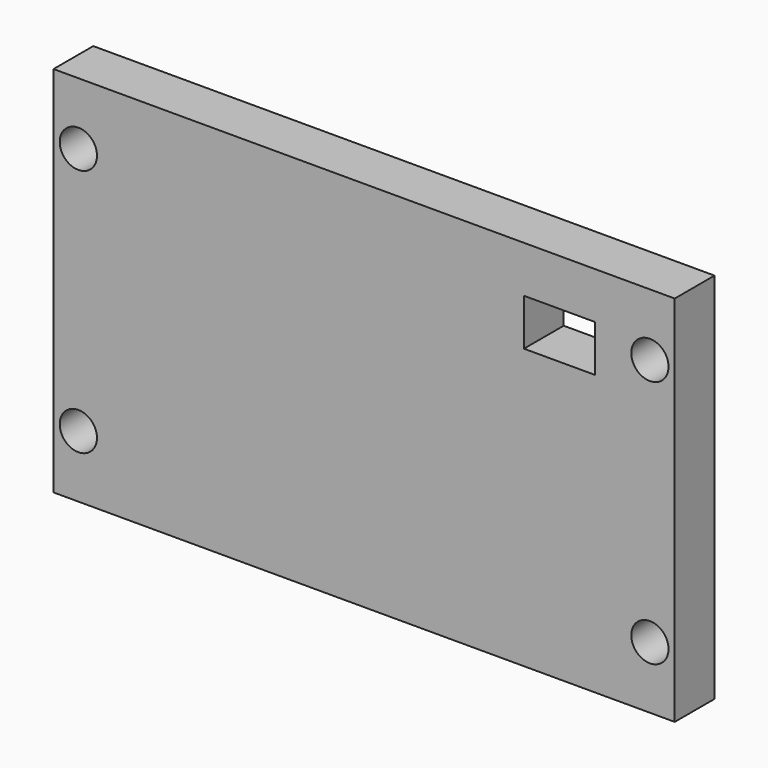
from build123d import *

# Parameters (mm, degrees)
F0_R     = 1.5
F0_W     = 5.708436
F0_H     = 3.75
F1_DEPTH = 4


with BuildPart() as f1:
    # F0 (on Front) → F1 (new body)
    with BuildSketch(Plane.XZ):
        Polygon((-25.910862, 0), (22.089138, 0), (22.089138, 7.5), (22.089138, 15), (-27.910862, 15), (-27.910862, 5), (-27.910862, 0), align=None)
        with Locations((-25.910862, 5)):
            Circle(F0_R, mode=Mode.SUBTRACT)
        with Locations((20.089138, 5)):
            Circle(F0_R, mode=Mode.SUBTRACT)
        Polygon((-27.910862, 15), (22.089138, 15), (22.089138, 30), (-25.910862, 30), (-27.910862, 30), (-27.910862, 25), align=None)
        with Locations((-25.910862, 25)):
            Circle(F0_R, mode=Mode.SUBTRACT)
        with Locations((12.807214, 24.375)):
            Rectangle(F0_W, F0_H, mode=Mode.SUBTRACT)
        with Locations((20.089138, 25)):
            Circle(F0_R, mode=Mode.SUBTRACT)
    extrude(amount=F1_DEPTH)


solid = f1.part
